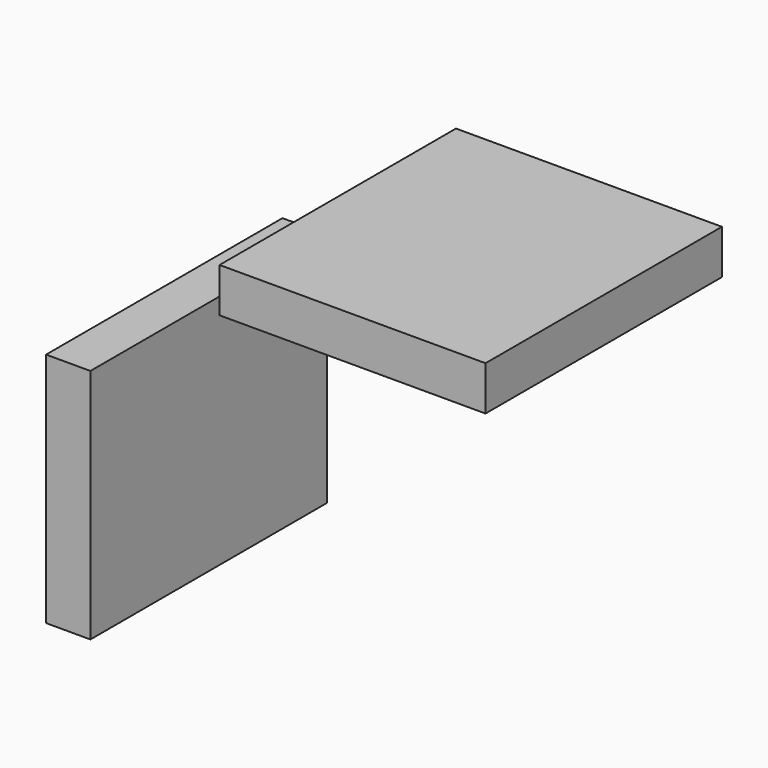
from build123d import *

# Parameters (mm, degrees)
F0_W     = 19.05
F0_H     = 101.6
F1_DEPTH = 63.5
F2_W     = 114.3
F2_H     = 19.05
F3_DEPTH = 63.5


with BuildPart() as f1:
    # F0 (on Front) → F1 (new body, symmetric)
    with BuildSketch(Plane.XZ):
        with Locations((156.023299, -42.243243)):
            Rectangle(F0_W, F0_H)
    extrude(amount=F1_DEPTH, both=True)


with BuildPart() as f3:
    # F2 (on Front) → F3 (new body, symmetric)
    with BuildSketch(Plane.XZ):
        with Locations((278.21508, 57.188717)):
            Rectangle(F2_W, F2_H)
    extrude(amount=F3_DEPTH, both=True)


solid = Compound([f1.part, f3.part])
